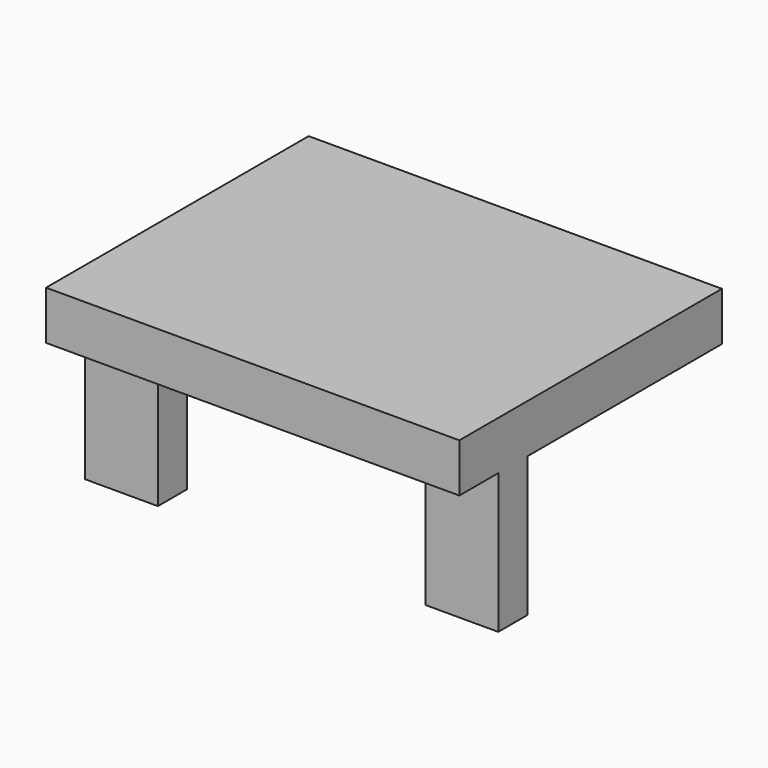
from build123d import *

# Parameters (mm, degrees)
F1_DEPTH = 3
F3_DEPTH = 4
F2_W     = 34
F2_H     = 4
F4_DEPTH = 23
F5_W     = 8
F5_H     = 11.5
F6_DEPTH = 2
F8_DEPTH = 2


with BuildPart() as f1:
    # F0 (on Front) → F1 (new body)
    with BuildSketch(Plane.XZ):
        Polygon((0, 15.5), (0, 0), (6, 0), (6, 11.5), (28, 11.5), (28, 0), (34, 0), (34, 15.5), align=None)
    extrude(amount=F1_DEPTH)

    # F2 (on face) → F3 (join)
    with BuildSketch(Plane.XZ.offset(3)):
        Polygon((0, 15.5), (0, 11.5), (6, 11.5), (28, 11.5), (34, 11.5), (34, 15.5), align=None)
    extrude(amount=F3_DEPTH)

    # F2 (on face) → F4 (join)
    with BuildSketch(Plane.XZ.offset(3)):
        with Locations((17, 13.5)):
            Rectangle(F2_W, F2_H)
    extrude(amount=-F4_DEPTH)

    # F5 (on face) → F6 (join)
    with BuildSketch(Plane(origin=(0, 20, 0), x_dir=(-1, 0, 0), z_dir=(0, 1, 0))):
        with Locations((-11.75, 5.75)):
            Rectangle(F5_W, F5_H)
    extrude(amount=-F6_DEPTH)

    # F7 (on face) → F8 (cut, through all)
    with BuildSketch(Plane(origin=(0, 20, 0), x_dir=(-1, 0, 0), z_dir=(0, 1, 0))):
        with BuildLine():
            ThreePointArc((-10.25, 5.93532), (-10.298761, 6.31467), (-10.441875, 6.669356))
            ThreePointArc((-10.441875, 6.669356), (-13.201239, 5.55597), (-10.25, 5.93532))
        make_face()
    extrude(amount=-F8_DEPTH, mode=Mode.SUBTRACT)


solid = f1.part
